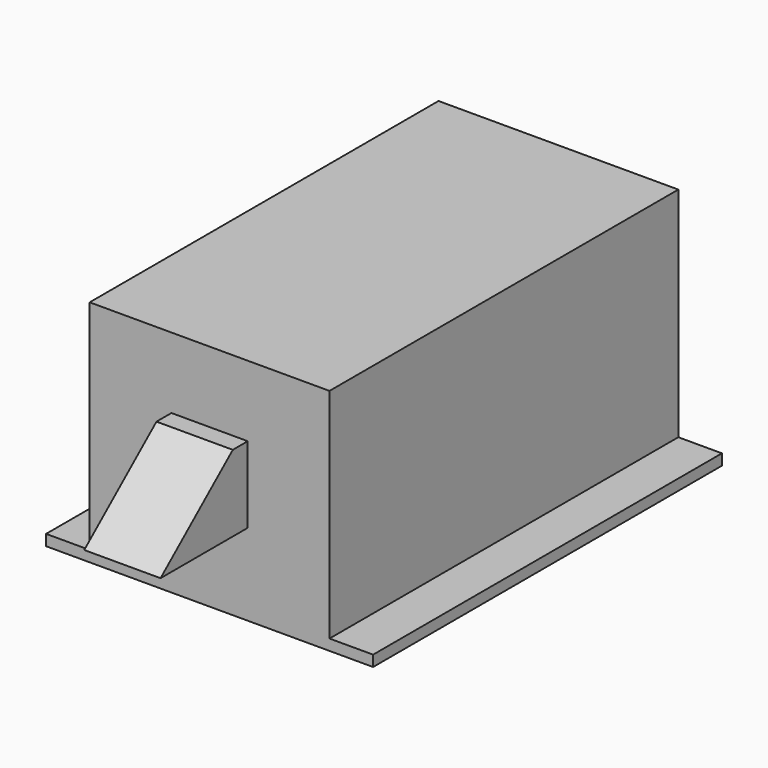
from build123d import *

# Parameters (mm, degrees)
F0_W     = 38.1
F0_H     = 50.8
F1_DEPTH = 1.27
F2_W     = 27.94
F2_H     = 50.8
F3_DEPTH = 25.4
F4_W     = 8.89
F4_H     = 8.89
F5_DEPTH = 12.7
F7_DEPTH = 8.89


with BuildPart() as f1:
    # F0 (on Top) → F1 (new body)
    with BuildSketch(Plane.XY):
        with Locations((-19.05, 25.4)):
            Rectangle(F0_W, F0_H)
    extrude(amount=F1_DEPTH)

    # F2 (on face) → F3 (join)
    with BuildSketch(Plane.XY.offset(1.27)):
        with Locations((-19.05, 25.4)):
            Rectangle(F2_W, F2_H)
    extrude(amount=F3_DEPTH)

    # F4 (on face) → F5 (join)
    with BuildSketch(Plane.XZ):
        with Locations((-19.05, 13.97)):
            Rectangle(F4_W, F4_H)
    extrude(amount=F5_DEPTH)

    # F6 (on face) → F7 (cut, through all)
    with BuildSketch(Plane(origin=(-23.495, 0, 0), x_dir=(0, -1, 0), z_dir=(-1, 0, 0))):
        Polygon((12.7, 18.415), (2.17834, 18.415), (12.7, 9.525), align=None)
    extrude(amount=-F7_DEPTH, mode=Mode.SUBTRACT)


solid = f1.part
